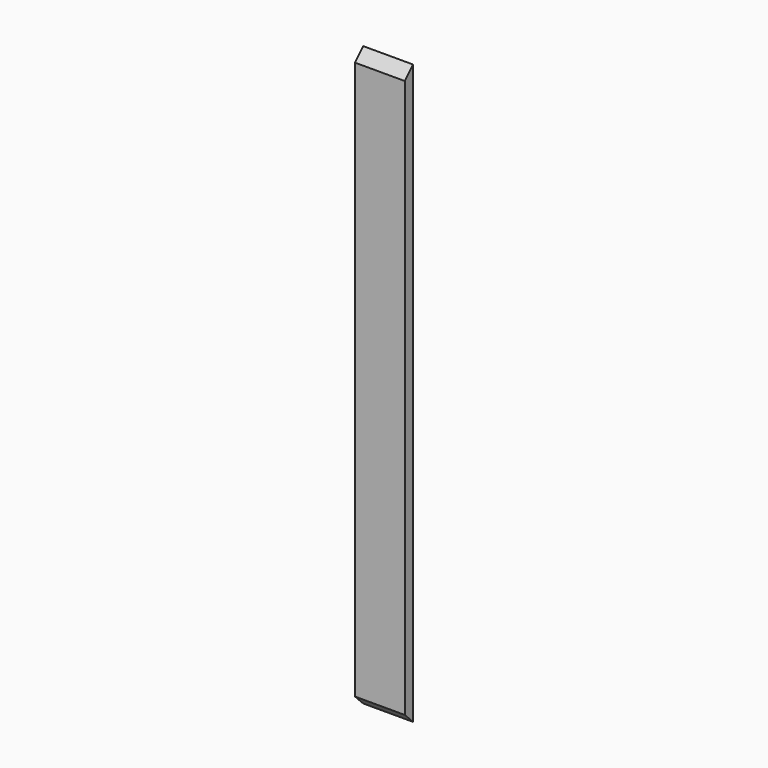
from build123d import *

# Parameters (mm, degrees)
F0_W     = 184.15
F0_H     = 38.1
F1_DEPTH = 2133.6
F3_DEPTH = 190.5


with BuildPart() as f1:
    # F0 (on Top) → F1 (new body)
    with BuildSketch(Plane.XY):
        Rectangle(F0_W, F0_H)
    extrude(amount=F1_DEPTH)

    # F2 (on face) → F3 (cut)
    with BuildSketch(Plane(origin=(-92.075, 0, 0), x_dir=(0, -1, 0), z_dir=(-1, 0, 0))):
        Polygon((19.05, 2133.6), (-19.05, 2133.6), (19.05, 2095.5), align=None)
        Polygon((19.05, 38.1), (-19.05, 0), (19.05, 0), align=None)
    extrude(amount=-F3_DEPTH, mode=Mode.SUBTRACT)


solid = f1.part
